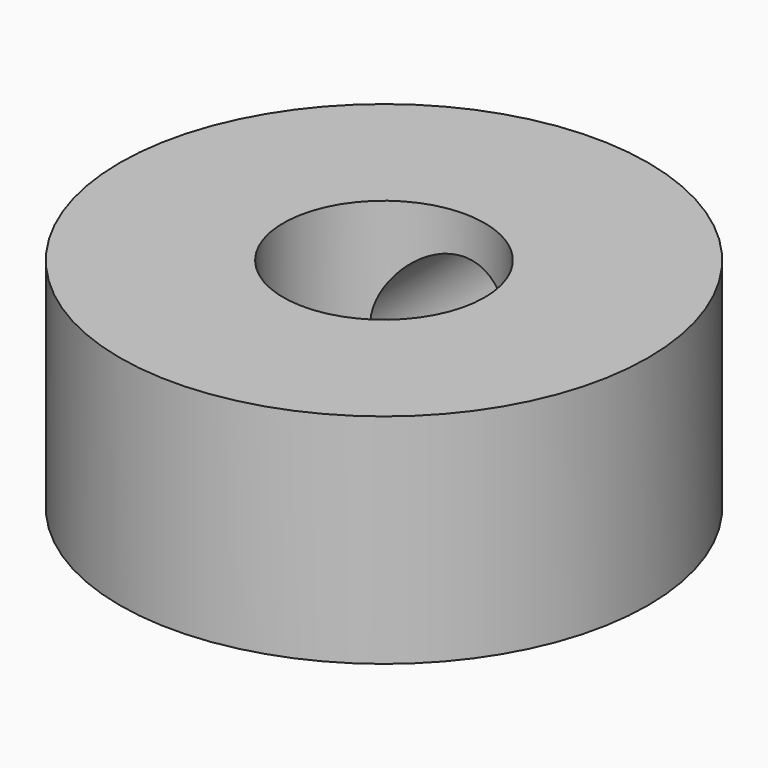
from build123d import *

# Parameters (mm, degrees)
SKETCH_R     = 4
SKETCH_R_2   = 1.525
PAD_DEPTH    = 3.3
SKETCH001_R  = 1.075
HOLE_DEPTH   = 5
CHAMFER_SIZE = 0.2


with BuildPart() as part:
    # Sketch → Pad (new body)
    with BuildSketch(Plane.XY):
        Circle(SKETCH_R)
        Circle(SKETCH_R_2, mode=Mode.SUBTRACT)
    extrude(amount=PAD_DEPTH)

    # Sketch001 → Hole (cut)
    with BuildSketch(Plane.XZ):
        with Locations((0, 1.65)):
            Circle(SKETCH001_R)
    extrude(amount=-HOLE_DEPTH, mode=Mode.SUBTRACT)

    # Chamfer
    chamfer_edges = [part.edges().sort_by_distance(p)[0] for p in [
        (1.075, 3.85284, 1.65),
    ]]
    chamfer(chamfer_edges, length=CHAMFER_SIZE)


solid = part.part
